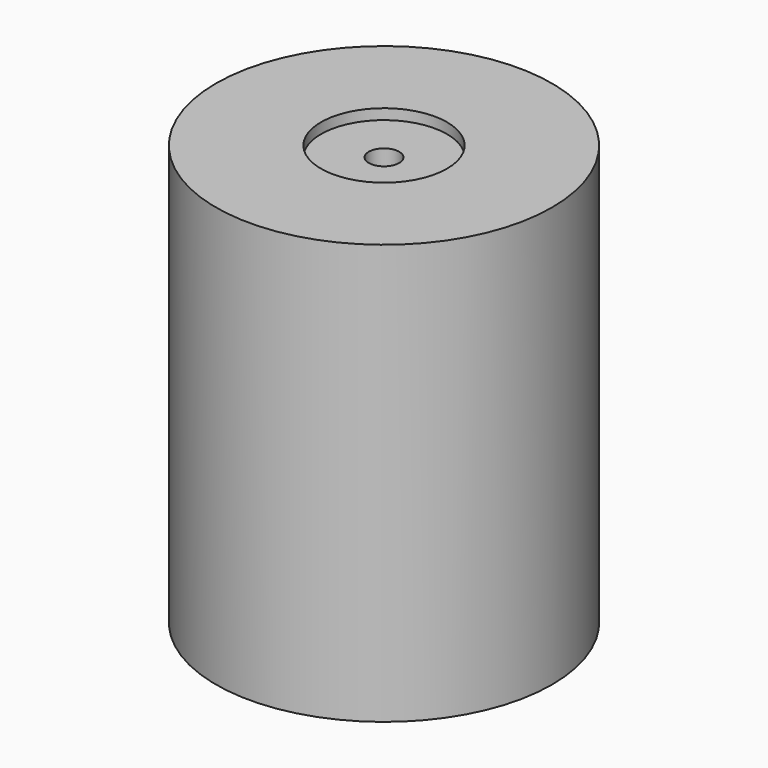
from build123d import *

# Parameters (mm, degrees)
F0_R     = 80
F1_DEPTH = 200
F3_D     = 14.5
F3_DEPTH = 40
F3_TIP   = 4.3562394879
F2_R     = 30
F2_R_2   = 20
F4_DEPTH = 5
F6_D     = 10.5
F6_DEPTH = 25
F6_TIP   = 3.1545182499
F7_D     = 12
F7_DEPTH = 25
F7_TIP   = 3.6051637142


with BuildPart() as f1:
    # F0 (on Top) → F1 (new body)
    with BuildSketch(Plane.XY):
        Circle(F0_R)
    extrude(amount=F1_DEPTH)

    # F3
    with Locations(Plane.XY.offset(200)):
        with Locations((0, 0)):
            Hole(F3_D / 2, depth=F3_DEPTH)
            with Locations((0, 0, -(F3_DEPTH + F3_TIP / 2))):  # 118° drill point
                Cone(0, F3_D / 2, F3_TIP, mode=Mode.SUBTRACT)

    # F2 (on face) → F4 (cut)
    with BuildSketch(Plane.XY.offset(200)):
        Circle(F2_R)
        Circle(F2_R_2, mode=Mode.SUBTRACT)
        Circle(F2_R_2)
    extrude(amount=-F4_DEPTH, mode=Mode.SUBTRACT)

    # F6
    with Locations(Plane(origin=(0, 0, 0), x_dir=(1, 0, 0), z_dir=(0, 0, -1))):
        with Locations((-24.9808732224, 34.3832222609), (-40.4199019425, -13.1332222609), (0, -42.5), (40.4199019425, -13.1332222609), (24.9808732224, 34.3832222609)):
            Hole(F6_D / 2, depth=F6_DEPTH)
            with Locations((0, 0, -(F6_DEPTH + F6_TIP / 2))):  # 118° drill point
                Cone(0, F6_D / 2, F6_TIP, mode=Mode.SUBTRACT)

    # F7
    with Locations(Plane(origin=(0, 0, 0), x_dir=(1, 0, 0), z_dir=(0, 0, -1))):
        with Locations((0, 0)):
            Hole(F7_D / 2, depth=F7_DEPTH)
            with Locations((0, 0, -(F7_DEPTH + F7_TIP / 2))):  # 118° drill point
                Cone(0, F7_D / 2, F7_TIP, mode=Mode.SUBTRACT)


solid = f1.part
